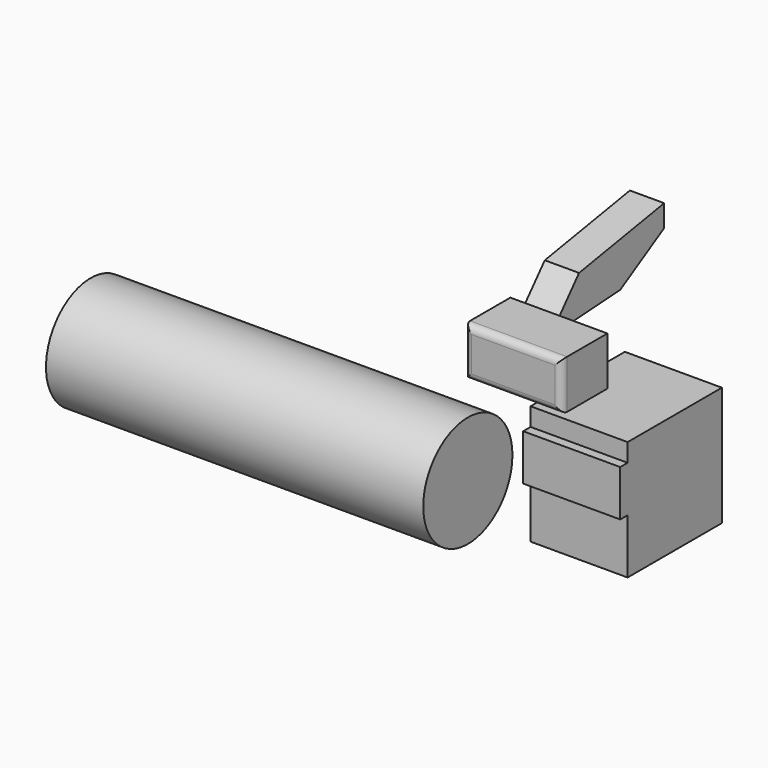
from build123d import *

# Parameters (mm, degrees)
F0_W     = 44.8984839022
F0_H     = 34.1596789658
F0_W_2   = 6.8594999611
F1_DEPTH = 71.882
F0_W_3   = 42.4041450024
F0_H_2   = 35.9633043408
F2_R     = 5.08
F4_DEPTH = 25.4
F3_R     = 41.2858066076
F5_DEPTH = 254


with BuildPart() as f1:
    # F0 (on Right) → F1 (new body)
    with BuildSketch(Plane.YZ):
        Polygon((42.4041338265, 47.6513393223), (-44.8984839022, 47.6513393223), (-44.8984839022, 34.1596789658), (0, 34.1596789658), (0, 0), (-44.8984839022, 0), (-44.8984839022, -40.6436882913), (42.4041338265, -40.6436882913), align=None)
        with Locations((-22.4492419511, 17.0798394829)):
            Rectangle(F0_W, F0_H)
        with Locations((-48.3282338828, 17.0798394829)):
            Rectangle(F0_W_2, F0_H)
    extrude(amount=F1_DEPTH)


with BuildPart() as f1b:
    # F0 (on Right) → F1, piece 2 (new body)
    with BuildSketch(Plane.YZ):
        with Locations((-84.8082602024, 108.1095896661)):
            Rectangle(F0_W_3, F0_H_2)
    extrude(amount=F1_DEPTH)

    # F2
    f2_edges = [f1b.edges().sort_by_distance(p)[0] for p in [
        (35.941, -106.010333, 126.091242),
        (35.941, -106.010333, 90.127937),
        (0, -106.010333, 108.10959),
        (71.882, -106.010333, 108.10959),
    ]]
    fillet(f2_edges, radius=F2_R)


with BuildPart() as f4:
    # F3 (on Right) → F4 (new body)
    with BuildSketch(Plane.YZ):
        Polygon((38.082100451, 89.7703766823), (78.8031518459, 113.5458573699), (78.8031518459, 129.7803670168), (0, 116.321593523), (-26.7950557172, 85.757240653), align=None)
    extrude(amount=-F4_DEPTH)


with BuildPart() as f4b:
    # F3 (on Right) → F4, piece 2 (new body)
    with BuildSketch(Plane.YZ):
        with Locations((-102.975666523, 22.6885396987)):
            Circle(F3_R)
    extrude(amount=-F4_DEPTH)

    # F5 (add): a face of the model
    f5_faces = [f4b.faces().sort_by_distance(p)[0] for p in [
        (-25.4, -102.975666523, 22.6885396987),
    ]]
    extrude(f5_faces, amount=F5_DEPTH)


solid = Compound([f1.part, f1b.part, f4.part, f4b.part])
